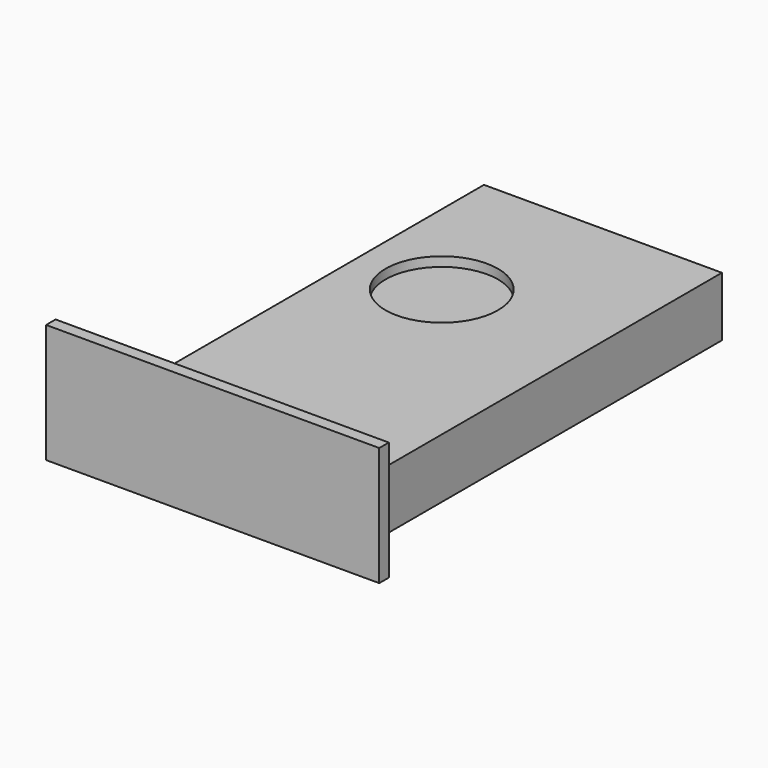
from build123d import *

# Parameters (mm, degrees)
F0_W     = 177.8
F0_H     = 63.5
F1_DEPTH = 6.35
F2_W     = 127
F2_H     = 31.75
F3_DEPTH = 254
F4_R     = 30
F5_DEPTH = 5


with BuildPart() as f1:
    # F0 (on Front) → F1 (new body)
    with BuildSketch(Plane.XZ):
        Rectangle(F0_W, F0_H)
    extrude(amount=F1_DEPTH)

    # F2 (on face) → F3 (join)
    with BuildSketch(Plane(origin=(0, 0, 0), x_dir=(-1, 0, 0), z_dir=(0, 1, 0))):
        with Locations((0, -15.875)):
            Rectangle(F2_W, F2_H)
    extrude(amount=F3_DEPTH)

    # F4 (on face) → F5 (cut)
    with BuildSketch(Plane.XY):
        with Locations((-18.2372, 169.2656)):
            Circle(F4_R)
    extrude(amount=-F5_DEPTH, mode=Mode.SUBTRACT)


solid = f1.part
